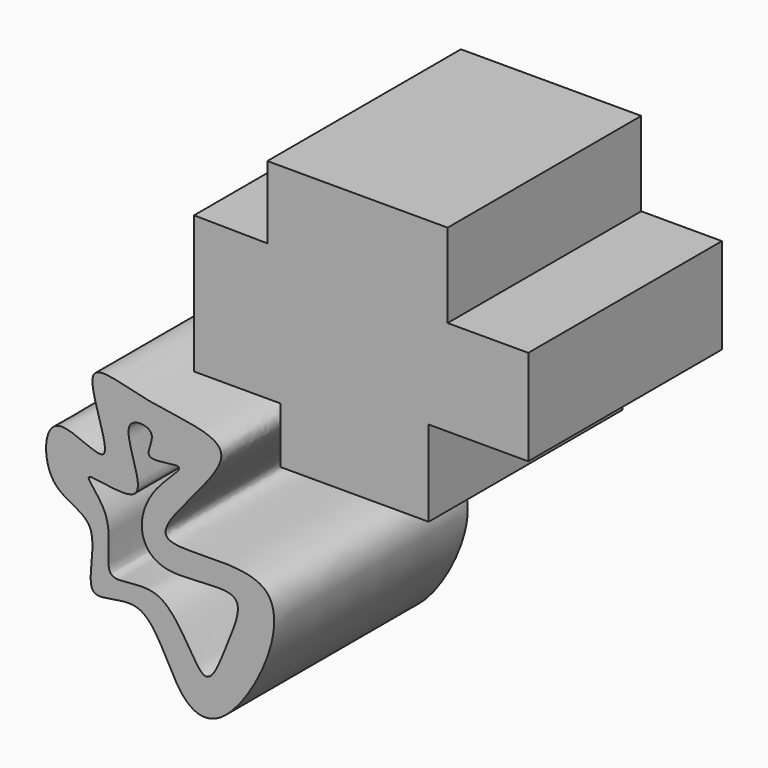
from build123d import *

# Parameters (mm, degrees)
F1_DEPTH = 50
F3_DEPTH = 25


with BuildPart() as f1:
    # F0 (on Front) → F1 (new body)
    with BuildSketch(Plane.XZ):
        Polygon((-26.4909565449, 51.5787005424), (-41.6286475956, 51.7487861216), (-41.6286475956, 23.3443584293), (-23.7695742399, 23.3443584293), (-23.7695742399, 11.7784831673), (6.8459752947, 11.7784831673), (6.8459752947, 29.4674690813), (27.4264328182, 29.4674690813), (27.4264328182, 49.1974949837), (10.7579659671, 49.1974949837), (10.7579659671, 66.5463060141), (-26.4909565449, 66.5463060141), align=None)
    extrude(amount=F1_DEPTH)


with BuildPart() as f1b:
    # F0 (on Front) → F1, piece 2 (new body)
    with BuildSketch(Plane.XZ):
        with BuildLine():
            add(Edge.make_bspline(
                [(-50.9833991528, 15.0101240724), (-43.9792349037, 13.6441693907), (-25.911043236, 13.6473617257), (-60.8596742323, -15.3191466581), (-14.8309549192, -2.7627047525), (-33.6501597144, -41.5953851726), (-45.7992648331, -37.6874180295), (-50.6858856662, -19.1857161117), (-65.9275705661, -27.5893021871), (-59.6896741564, -9.384636205), (-72.9785894339, -8.8215294352), (-72.6424299394, 9.4050898325), (-55.1682280417, -3.8147316828), (-67.2689432703, 20.6599685524), (-56.955081044, 16.1747236659), (-50.9833991528, 15.0101240724)],
                knots=[0, 0, 0, 0, 0.0828376449, 0.1783772688, 0.2731801967, 0.3808236427, 0.4428325527, 0.5247674548, 0.5870893216, 0.6566994761, 0.7220396992, 0.788464398, 0.8532488958, 0.9293734346, 1, 1, 1, 1], degree=3))
        make_face()
    extrude(amount=F1_DEPTH)

    # F2 (on face) → F3 (cut)
    with BuildSketch(Plane.XZ.offset(50)):
        with BuildLine():
            add(Edge.make_bspline(
                [(-50.8133098483, 4.9750274047), (-51.5553862729, 5.7114554256), (-48.1578177592, 10.2692782267), (-58.9690022177, 11.1486325331), (-47.8264108264, -7.0541330547), (-67.8953094289, -0.4765315887), (-57.0113083878, -8.55654061), (-61.9426057038, -22.830553001), (-46.6509415546, -15.4144595026), (-39.5433028873, -36.9027152524), (-34.8978946563, -23.8141620252), (-29.4484262604, -11.8454449754), (-48.2307231035, -16.7085066879), (-53.8344113908, -9.1596998431), (-50.4365844241, -0.2659040188), (-41.2441718347, 6.6628520808), (-49.9366726264, 4.1050628122), (-50.8133098483, 4.9750274047)],
                knots=[0, 0, 0, 0, 0.0469222919, 0.094697577, 0.1732837131, 0.2434042527, 0.3028923325, 0.3763102196, 0.4477984385, 0.5346435422, 0.6008495065, 0.6695470221, 0.754441909, 0.8159812981, 0.8869365628, 0.9445692839, 1, 1, 1, 1], degree=3))
        make_face()
    extrude(amount=-F3_DEPTH, mode=Mode.SUBTRACT)


solid = Compound([f1.part, f1b.part])
